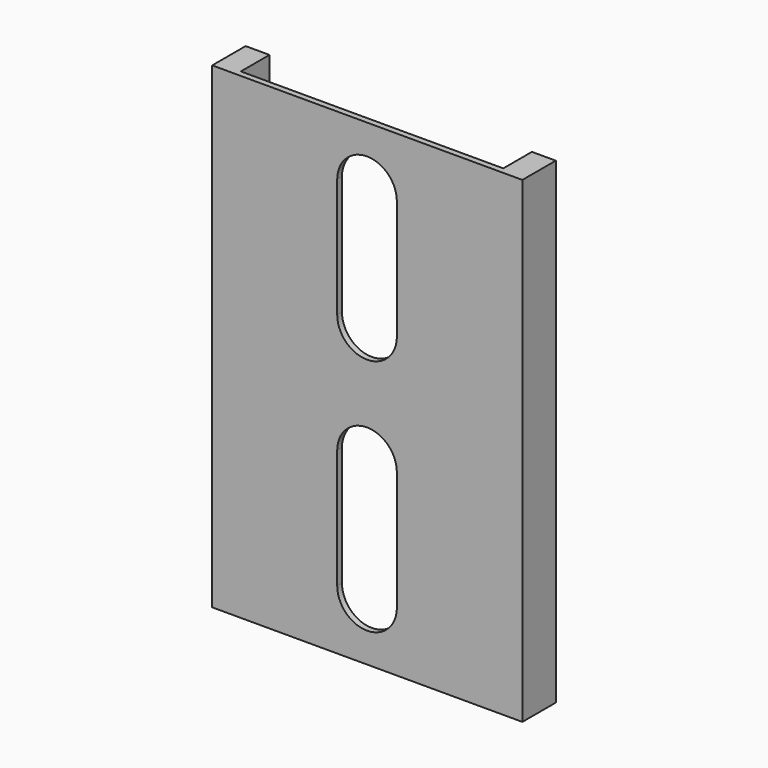
from build123d import *

# Parameters (mm, degrees)
F1_DEPTH = 400
F3_DEPTH = 25


with BuildPart() as f1:
    # F0 (on Top) → F1 (new body)
    with BuildSketch(Plane.XY):
        Polygon((-130, 17.5), (-130, -17.5), (130, -17.5), (130, 17.5), (110, 17.5), (110, -12.5), (-110, -12.5), (-110, 17.5), align=None)
    extrude(amount=F1_DEPTH)

    # F2 (on face) → F3 (cut)
    with BuildSketch(Plane.XZ.offset(17.5)):
        with BuildLine():
            Line((-25.221969, 350), (-25.221969, 250))
            ThreePointArc((-25.221969, 250), (-0.221969, 225), (24.778031, 250))
            Line((24.778031, 250), (24.778031, 350))
            ThreePointArc((24.778031, 350), (-0.221969, 375), (-25.221969, 350))
        make_face()
        with BuildLine():
            Line((24.778031, 50), (24.778031, 150))
            ThreePointArc((24.778031, 150), (-0.221969, 175), (-25.221969, 150))
            Line((-25.221969, 150), (-25.221969, 50))
            ThreePointArc((-25.221969, 50), (-0.221969, 25), (24.778031, 50))
        make_face()
    extrude(amount=-F3_DEPTH, mode=Mode.SUBTRACT)


solid = f1.part
